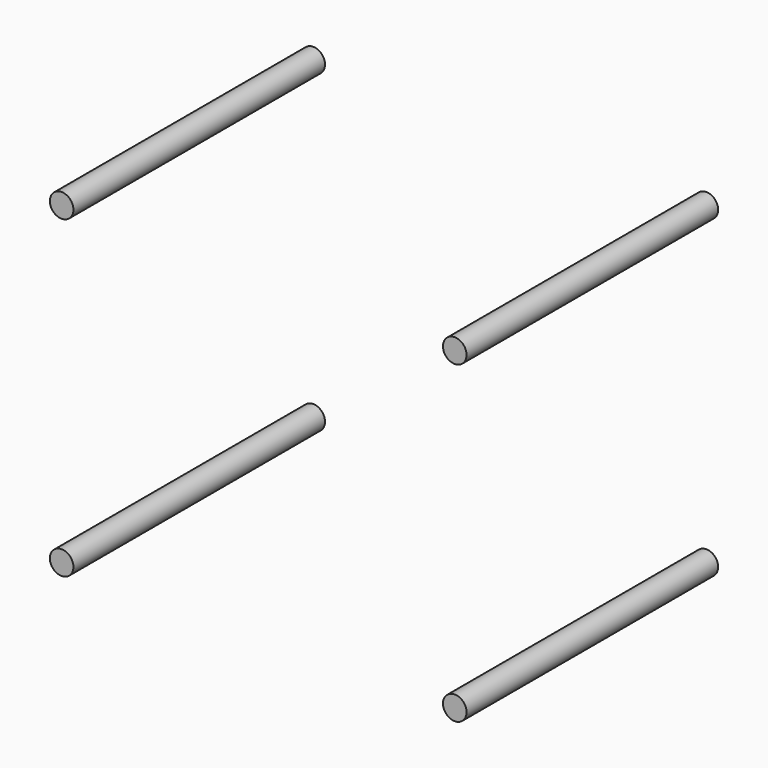
from build123d import *

# Parameters (mm, degrees)
CYLINDER019_R          = 1.5
CYLINDER019_DEPTH      = 40
CYLINDER019_ROLL_ANGLE = -90
CYLINDER018_R          = 1.5
CYLINDER018_DEPTH      = 40
CYLINDER018_ROLL_ANGLE = -90
CYLINDER017_R          = 1.5
CYLINDER017_DEPTH      = 40
CYLINDER017_ROLL_ANGLE = -90
CYLINDER016_R          = 1.5
CYLINDER016_DEPTH      = 40
CYLINDER016_ROLL_ANGLE = -90


with BuildPart() as bolt004:
    # Cylinder019 → Cylinder019 (new body)
    with BuildSketch(Plane.XY):
        Circle(CYLINDER019_R)
    extrude(amount=CYLINDER019_DEPTH)


with BuildPart() as bolt004_1:
    # Cylinder019 roll: moved
    add(bolt004.part.rotate(Axis((0, 0, 0), (1, 0, 0)), CYLINDER019_ROLL_ANGLE))


with BuildPart() as bolt004_2:
    # Cylinder019 placement: moved
    add(bolt004_1.part.moved(Location((25, -20, -20))))


with BuildPart() as bolt_down:
    # Cylinder018 → Cylinder018 (new body)
    with BuildSketch(Plane.XY):
        Circle(CYLINDER018_R)
    extrude(amount=CYLINDER018_DEPTH)


with BuildPart() as bolt_down_1:
    # Cylinder018 roll: moved
    add(bolt_down.part.rotate(Axis((0, 0, 0), (1, 0, 0)), CYLINDER018_ROLL_ANGLE))


with BuildPart() as bolt_down_2:
    # Cylinder018 placement: moved
    add(bolt_down_1.part.moved(Location((-25, -20, -20))))

    # Fusion023: union Bolt004
    add(bolt004_2.part)


with BuildPart() as bolt002:
    # Cylinder017 → Cylinder017 (new body)
    with BuildSketch(Plane.XY):
        Circle(CYLINDER017_R)
    extrude(amount=CYLINDER017_DEPTH)


with BuildPart() as bolt002_1:
    # Cylinder017 roll: moved
    add(bolt002.part.rotate(Axis((0, 0, 0), (1, 0, 0)), CYLINDER017_ROLL_ANGLE))


with BuildPart() as bolt002_2:
    # Cylinder017 placement: moved
    add(bolt002_1.part.moved(Location((25, -20, 20))))


with BuildPart() as bolt:
    # Cylinder016 → Cylinder016 (new body)
    with BuildSketch(Plane.XY):
        Circle(CYLINDER016_R)
    extrude(amount=CYLINDER016_DEPTH)


with BuildPart() as bolt_1:
    # Cylinder016 roll: moved
    add(bolt.part.rotate(Axis((0, 0, 0), (1, 0, 0)), CYLINDER016_ROLL_ANGLE))


with BuildPart() as bolt_2:
    # Cylinder016 placement: moved
    add(bolt_1.part.moved(Location((-25, -20, 20))))

    # Fusion022: union Bolt002
    add(bolt002_2.part)

    # Fusion024: union Bolt-Down
    add(bolt_down_2.part)


solid = bolt_2.part
